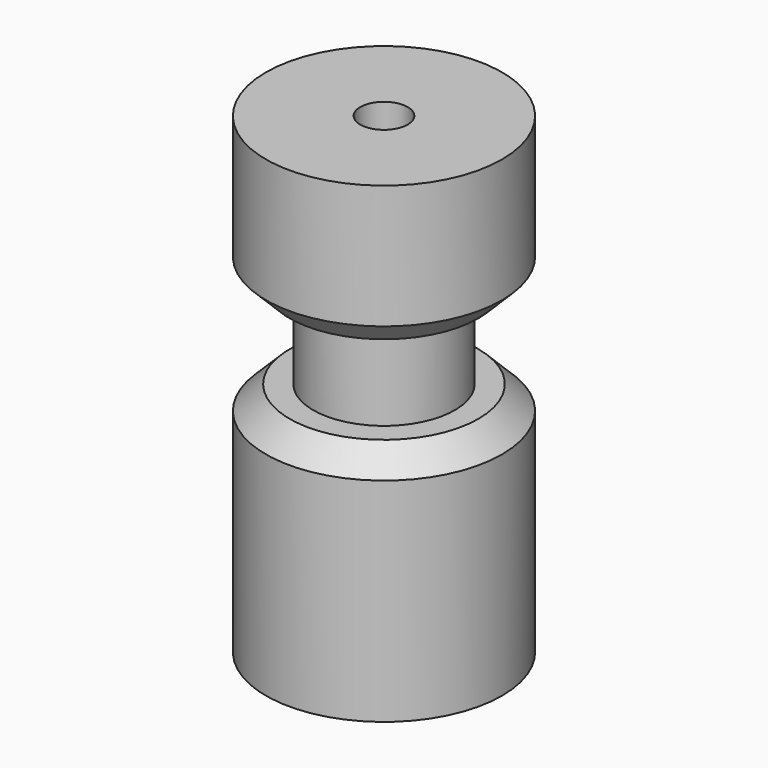
from build123d import *

# Parameters (mm, degrees)
F0_R     = 12.7
F1_DEPTH = 50.8
F2_W     = 5.08
F2_H     = 9.525
F4_SIZE  = 2.54
F6_D     = 5.1054


with BuildPart() as f1:
    # F0 (on Top) → F1 (new body)
    with BuildSketch(Plane.XY):
        Circle(F0_R)
    extrude(amount=F1_DEPTH)

    # F2 (on Right) → F3 (revolve, cut)
    with BuildSketch(Plane.YZ):
        with Locations((-10.16, 30.1625)):
            Rectangle(F2_W, F2_H)
    revolve(axis=Axis((0, 0, 51.1521063745), (0, 0, -1)), mode=Mode.SUBTRACT)

    # F4
    f4_edges = [f1.edges().sort_by_distance(p)[0] for p in [
        (-12.7, 0, 25.4),
        (-12.7, 0, 34.925),
    ]]
    chamfer(f4_edges, length=F4_SIZE)

    # F6 (through all)
    with Locations(Plane(origin=(0, 0, 0), x_dir=(1, 0, 0), z_dir=(0, 0, -1))):
        with Locations((0, 0)):
            Hole(F6_D / 2)


solid = f1.part
